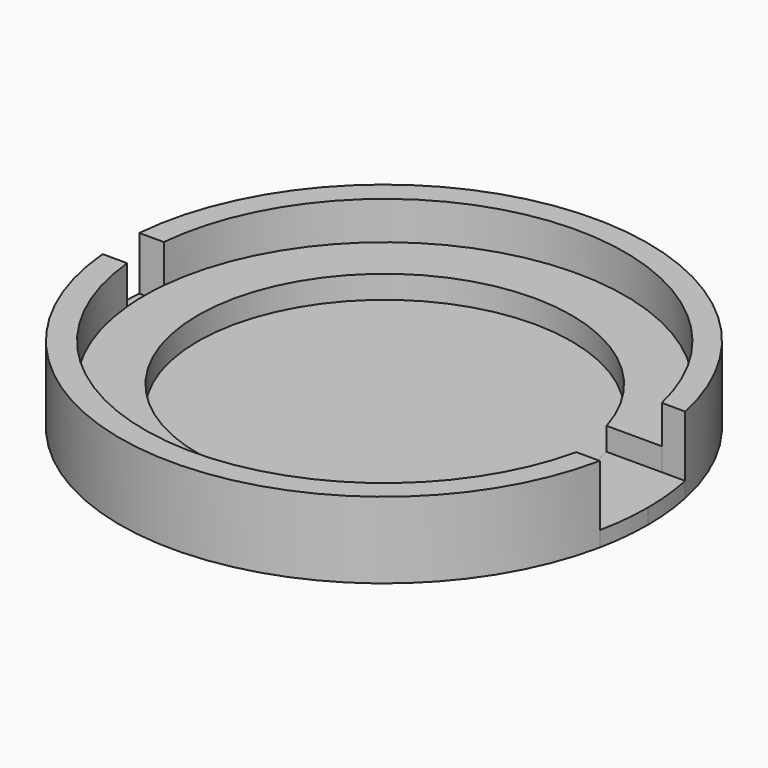
from build123d import *

# Parameters (mm, degrees)
F1_DEPTH = 10
F2_DEPTH = 3
F3_DEPTH = 2
F4_DEPTH = 5
F5_DEPTH = 2


with BuildPart() as f1:
    # F0 (on Top) → F1 (new body)
    with BuildSketch(Plane.XY):
        with BuildLine():
            ThreePointArc((-31.252798, 3), (-1.921771, 31.434792), (30.816394, 7))
            Line((30.816394, 7), (33.888614, 7))
            ThreePointArc((33.888614, 7), (-2.021284, 34.544935), (-34.473731, 3))
            Line((-34.473731, 3), (-31.395981, 3))
            Line((-31.395981, 3), (-31.252798, 3))
        make_face()
        with BuildLine():
            Line((33.888614, -7), (30.816394, -7))
            ThreePointArc((30.816394, -7), (-1.920884, -31.43485), (-31.252629, -3.00177))
            Line((-31.252629, -3.00177), (-31.395981, -3))
            Line((-31.395981, -3), (-34.473731, -3))
            ThreePointArc((-34.473731, -3), (-2.021284, -34.544935), (33.888614, -7))
        make_face()
    extrude(amount=F1_DEPTH)


with BuildPart() as f2:
    # F0 (on Top) → F2 (new body)
    with BuildSketch(Plane.XY):
        with BuildLine():
            ThreePointArc((-31.252629, -3.00177), (-31.395981, -0.000889), (-31.252798, 3))
            Line((-31.252798, 3), (-31.395981, 3))
            Line((-31.395981, 3), (-34.473731, 3))
            ThreePointArc((-34.473731, 3), (-34.604019, 0), (-34.473731, -3))
            Line((-34.473731, -3), (-31.395981, -3))
            Line((-31.395981, -3), (-31.252629, -3.00177))
        make_face()
    extrude(amount=F2_DEPTH)


with BuildPart() as f3:
    # F0 (on Top) → F3 (new body)
    with BuildSketch(Plane.XY):
        with BuildLine():
            ThreePointArc((23.582733, -7), (24.347353, -3.537055), (24.604019, 0))
            ThreePointArc((24.604019, 0), (24.347353, 3.537055), (23.582733, 7))
            ThreePointArc((23.582733, 7), (-24.395981, 0), (23.582733, -7))
        make_face()
    extrude(amount=F3_DEPTH)


with BuildPart() as f4:
    # F0 (on Top) → F4 (new body)
    with BuildSketch(Plane.XY):
        with BuildLine():
            ThreePointArc((23.582733, -7), (-24.395981, 0), (23.582733, 7))
            Line((23.582733, 7), (24.604019, 7))
            Line((24.604019, 7), (30.816394, 7))
            ThreePointArc((30.816394, 7), (-1.921771, 31.434792), (-31.252798, 3))
            ThreePointArc((-31.252798, 3), (-31.395981, -0.000889), (-31.252629, -3.00177))
            ThreePointArc((-31.252629, -3.00177), (-1.920884, -31.43485), (30.816394, -7))
            Line((30.816394, -7), (24.604019, -7))
            Line((24.604019, -7), (23.582733, -7))
        make_face()
    extrude(amount=F4_DEPTH)


with BuildPart() as f5:
    # F0 (on Top) → F5 (new body)
    with BuildSketch(Plane.XY):
        with BuildLine():
            ThreePointArc((23.582733, 7), (24.347353, 3.537055), (24.604019, 0))
            Line((24.604019, 0), (31.604019, 0))
            ThreePointArc((31.604019, 0), (31.406494, 3.522086), (30.816394, 7))
            Line((30.816394, 7), (24.604019, 7))
            Line((24.604019, 7), (23.582733, 7))
        make_face()
        with BuildLine():
            Line((31.604019, 0), (24.604019, 0))
            ThreePointArc((24.604019, 0), (24.347353, -3.537055), (23.582733, -7))
            Line((23.582733, -7), (24.604019, -7))
            Line((24.604019, -7), (30.816394, -7))
            ThreePointArc((30.816394, -7), (31.406494, -3.522086), (31.604019, 0))
        make_face()
        with BuildLine():
            Line((34.604019, 0), (31.604019, 0))
            ThreePointArc((31.604019, 0), (31.406494, -3.522086), (30.816394, -7))
            Line((30.816394, -7), (33.888614, -7))
            ThreePointArc((33.888614, -7), (34.424703, -3.518231), (34.604019, 0))
        make_face()
        with BuildLine():
            ThreePointArc((30.816394, 7), (31.406494, 3.522086), (31.604019, 0))
            Line((31.604019, 0), (34.604019, 0))
            ThreePointArc((34.604019, 0), (34.424703, 3.518231), (33.888614, 7))
            Line((33.888614, 7), (30.816394, 7))
        make_face()
    extrude(amount=F5_DEPTH)


solid = Compound([f1.part, f2.part, f3.part, f4.part, f5.part])
